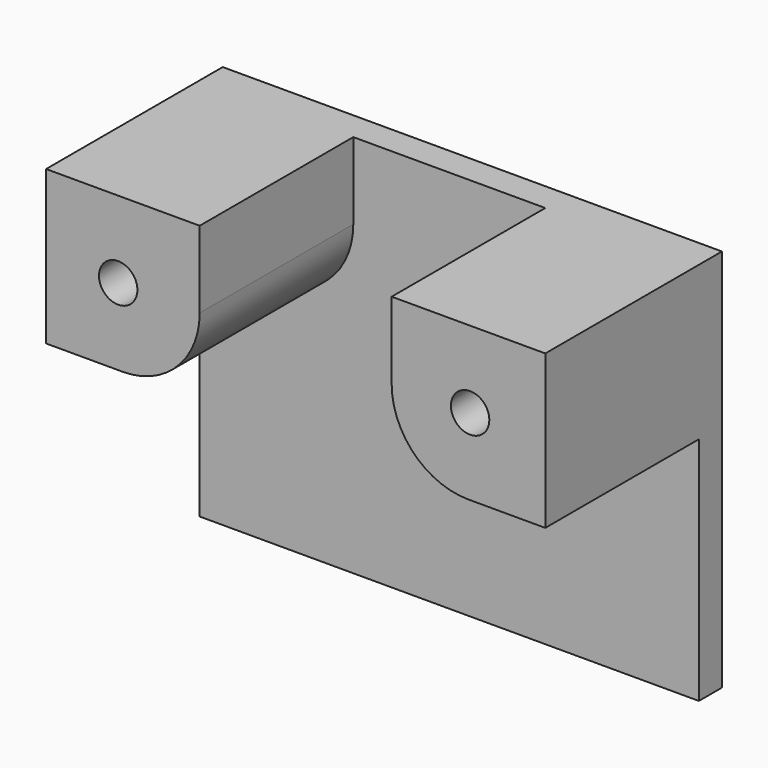
from build123d import *

# Parameters (mm, degrees)
F0_W     = 165.1
F0_H     = 127
F1_DEPTH = 9.525
F3_DEPTH = 63.5
F4_R     = 19.05
F6_DEPTH = 50.8
F5_R     = 6.35
F7_DEPTH = 25.4
F8_R     = 6.35
F9_DEPTH = 25.4


with BuildPart() as f1:
    # F0 (on Front) → F1 (new body)
    with BuildSketch(Plane.XZ):
        Rectangle(F0_W, F0_H)
        Rectangle(F0_W, F0_H)
    extrude(amount=F1_DEPTH)

    # F2 (on face) → F3 (join)
    with BuildSketch(Plane.XZ.offset(9.525)):
        with BuildLine():
            Line((82.55, 63.5), (31.75, 63.5))
            Line((31.75, 63.5), (31.75, 38.1))
            ThreePointArc((31.75, 38.1), (39.189488, 20.139488), (57.15, 12.7))
            Line((57.15, 12.7), (82.55, 12.7))
            Line((82.55, 12.7), (82.55, 63.5))
        make_face()
        with BuildLine():
            Line((-31.75, 63.5), (-82.55, 63.5))
            Line((-82.55, 63.5), (-82.55, 12.7))
            Line((-82.55, 12.7), (-57.15, 12.7))
            ThreePointArc((-57.15, 12.7), (-39.189488, 20.139488), (-31.75, 38.1))
            Line((-31.75, 38.1), (-31.75, 63.5))
        make_face()
    extrude(amount=F3_DEPTH)

    # F4 (on face) → F6 (cut)
    with BuildSketch(Plane.XZ.offset(9.525)):
        Circle(F4_R)
    extrude(amount=-F6_DEPTH, mode=Mode.SUBTRACT)

    # F5 (on face) → F7 (cut)
    with BuildSketch(Plane.XZ.offset(73.025)):
        with Locations((-58.704365, 38.1)):
            Circle(F5_R)
    extrude(amount=-F7_DEPTH, mode=Mode.SUBTRACT)

    # F8 (on face) → F9 (cut)
    with BuildSketch(Plane.XZ.offset(73.025)):
        with Locations((57.692219, 38.1)):
            Circle(F8_R)
    extrude(amount=-F9_DEPTH, mode=Mode.SUBTRACT)


solid = f1.part
